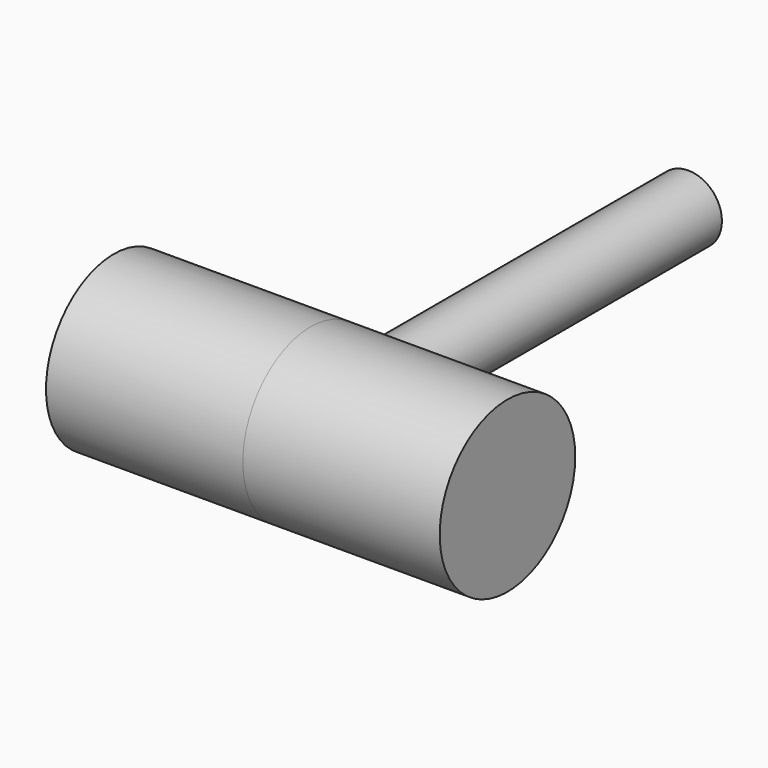
from build123d import *

# Parameters (mm, degrees)
F0_R      = 10.839936
F1_DEPTH  = 50.8
F1_FACE_R = 10.839936
F2_DEPTH  = 76.2
F3_R      = 27.326427
F4_DEPTH  = 63.5
F5_DEPTH  = 63.5


with BuildPart() as f1:
    # F0 (on Front) → F1 (new body)
    with BuildSketch(Plane.XZ):
        Circle(F0_R)
    extrude(amount=F1_DEPTH)

    # F1_face (on face) → F2 (join)
    with BuildSketch(Plane.XZ.offset(50.8)):
        Circle(F1_FACE_R)
    extrude(amount=F2_DEPTH)

    # F3 (on Right) → F4 (join)
    with BuildSketch(Plane.YZ):
        with Locations((-152.289372, 1.042985)):
            Circle(F3_R)
    extrude(amount=F4_DEPTH)

    # F4_face (on face) → F5 (join)
    with BuildSketch(Plane(origin=(0, -152.607876, 1.043252), x_dir=(0, 1, 0), z_dir=(-1, 0, 0))):
        with BuildLine():
            Line((25.828372, -9.796684), (25.607876, -9.796684))
            Line((25.607876, -9.796684), (25.607876, 10.353106))
            ThreePointArc((25.607876, 10.353106), (-27.006288, -0.298744), (25.828372, -9.796684))
        make_face()
    extrude(amount=F5_DEPTH)


solid = f1.part
